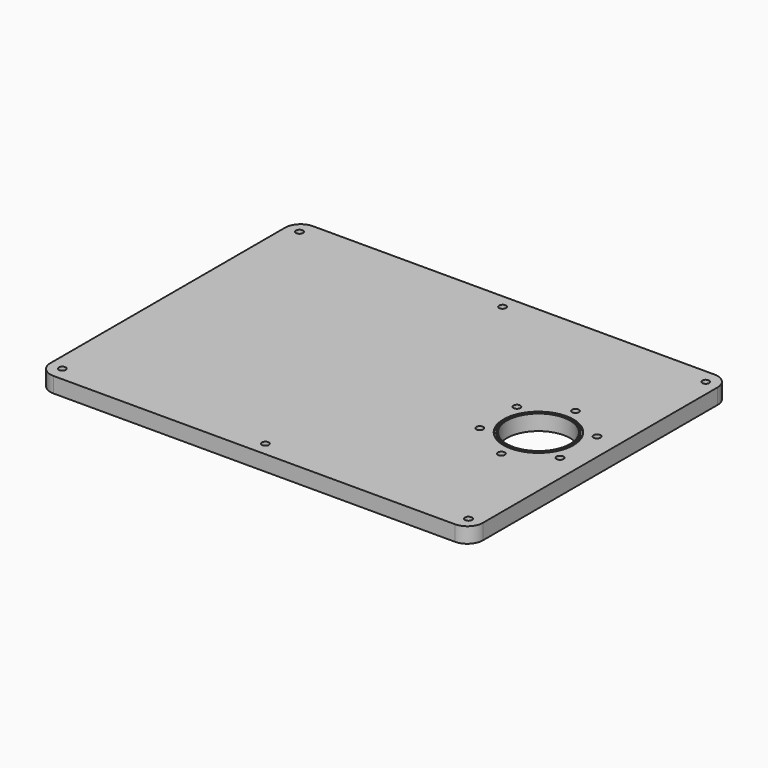
from build123d import *

# Parameters (mm, degrees)
F0_W     = 280
F0_H     = 210
F1_DEPTH = 10
F2_R     = 20.5
F3_DEPTH = 10
F5_R     = 10
F7_D     = 4.5
F8_D     = 4.5
F8_DEPTH = 8
F8_TIP   = 1.3519363928
F2_R_2   = 22.65
F2_R_3   = 21.35
F9_DEPTH = 1


with BuildPart() as f1:
    # F0 (on Top) → F1 (new body)
    with BuildSketch(Plane.XY):
        Rectangle(F0_W, F0_H)
    extrude(amount=F1_DEPTH)


with BuildPart() as f3:
    # F2 (on face) → F3 (new body)
    with BuildSketch(Plane.XY.offset(10)):
        with Locations((100, 0)):
            Circle(F2_R)
    extrude(amount=-F3_DEPTH)


with BuildPart() as f1_1:
    add(f1.part)

    # F4: cut F3
    add(f3.part, mode=Mode.SUBTRACT)

    # F5
    f5_edges = [f1_1.edges().sort_by_distance(p)[0] for p in [
        (-140, 105, 5),
        (140, 105, 5),
        (140, -105, 5),
        (-140, -105, 5),
    ]]
    fillet(f5_edges, radius=F5_R)

    # F7 (through all)
    with Locations(Plane.XY.offset(10)):
        with Locations((-131.5, 96), (0, 96), (131.5, 96), (131.5, -96), (0, -96), (-131.5, -96)):
            Hole(F7_D / 2)

    # F8
    with Locations(Plane.XY.offset(10)):
        with Locations((100, 30), (125.9807621135, 15), (125.9807621135, -15), (100, -30), (74.0192378865, -15), (74.0192378865, 15)):
            Hole(F8_D / 2, depth=F8_DEPTH)
            with Locations((0, 0, -(F8_DEPTH + F8_TIP / 2))):  # 118° drill point
                Cone(0, F8_D / 2, F8_TIP, mode=Mode.SUBTRACT)


with BuildPart() as f9:
    # F2 (on face) → F9 (new body)
    with BuildSketch(Plane.XY.offset(10)):
        with Locations((100, 0)):
            Circle(F2_R_2)
        with Locations((100, 0)):
            Circle(F2_R_3, mode=Mode.SUBTRACT)
    extrude(amount=-F9_DEPTH)


with BuildPart() as f1_2:
    add(f1_1.part)

    # F10: cut F9
    add(f9.part, mode=Mode.SUBTRACT)


solid = f1_2.part
